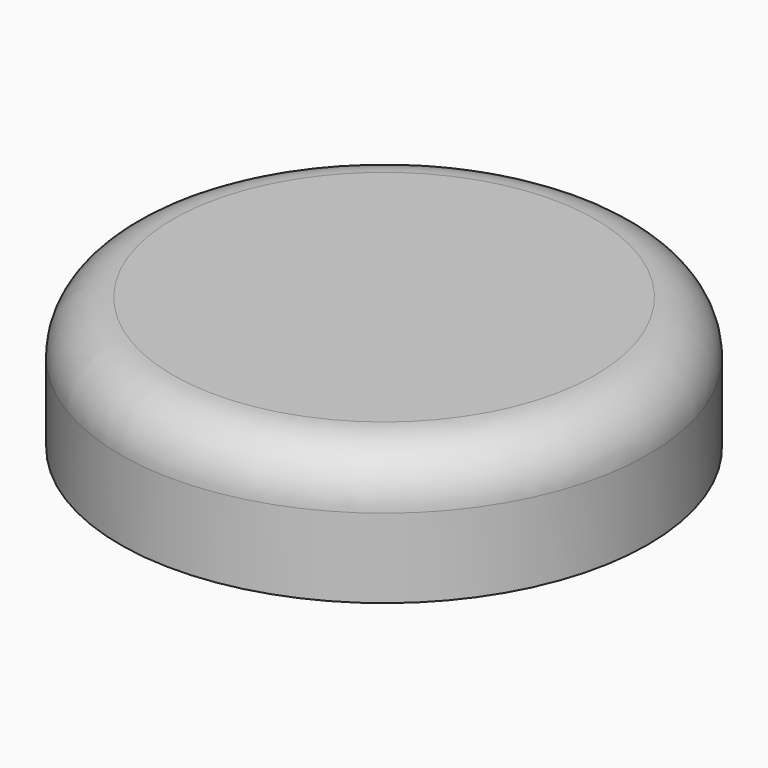
from build123d import *

# Parameters (mm, degrees)
F0_R     = 50
F1_DEPTH = 25
F2_R     = 10
F3_T     = -5
F4_R     = 47.5
F4_R_2   = 45
F5_DEPTH = 2.5
F5_TAPER = -5


with BuildPart() as f1:
    # F0 (on Top) → F1 (new body)
    with BuildSketch(Plane.XY):
        Circle(F0_R)
    extrude(amount=F1_DEPTH)

    # F2
    f2_edges = [f1.edges().sort_by_distance(p)[0] for p in [
        (-50, 0, 25),
    ]]
    fillet(f2_edges, radius=F2_R)

    # F3
    f3_openings = [f1.faces().sort_by_distance(p)[0] for p in [
        (0, 0, 0),
    ]]
    offset(amount=F3_T, openings=f3_openings)

    # F4 (on face) → F5 (cut)
    with BuildSketch(Plane(origin=(0, 0, 0), x_dir=(1, 0, 0), z_dir=(0, 0, -1))):
        Circle(F4_R)
        Circle(F4_R_2, mode=Mode.SUBTRACT)
    extrude(amount=-F5_DEPTH, taper=F5_TAPER, mode=Mode.SUBTRACT)


solid = f1.part
